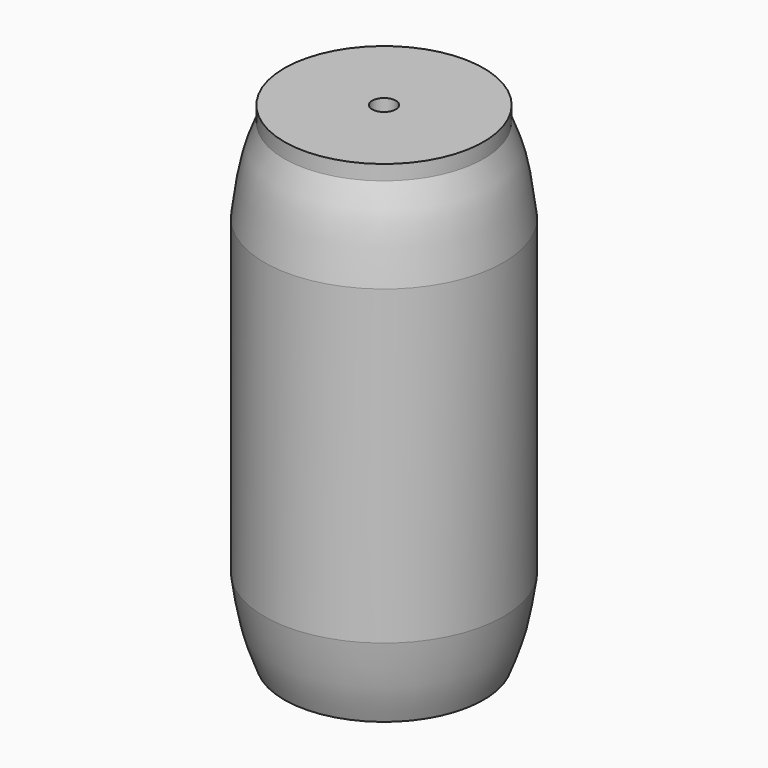
from build123d import *

# Parameters (mm, degrees)
F3_D           = 60.325
F3_CBORE_D     = 60.325
F3_CBORE_DEPTH = 4.826


with BuildPart() as f1:
    # F0 (on Front) → F1 (revolve)
    with BuildSketch(Plane.XZ):
        with BuildLine():
            Line((0, 184.3925616264), (0, 1251.1925616264))
            Line((0, 1251.1925616264), (-254, 1251.1925616264))
            Line((-254, 1251.1925616264), (-254, 1213.0925616264))
            add(Edge.make_bspline(
                [(-254, 1213.0925616264), (-264.7863300499, 1186.664170065), (-288.7208143023, 1128.0205054709), (-299.0989058542, 1043.5793898388), (-304.8, 997.1925616264)],
                knots=[0, 0, 0, 0, 0.4506606424, 1, 1, 1, 1], degree=3))
            Line((-304.8, 997.1925616264), (-304.8, 203.2))
            add(Edge.make_bspline(
                [(-254, 0), (-264.8896198837, 28.1579660638), (-288.0059983927, 87.9314208331), (-298.9902100194, 163.3234862316), (-304.8, 203.2)],
                knots=[0, 0, 0, 0, 0.4710781094, 1, 1, 1, 1], degree=3))
            Line((-254, 0), (0, 0))
            Line((0, 0), (0, 184.3925616264))
        make_face()
    revolve(axis=Axis((0, 0, 717.7925616264), (0, 0, -1)))

    # F3 (through all)
    with Locations(Plane(origin=(0, 0, 0), x_dir=(1, 0, 0), z_dir=(0, 0, -1))):
        with Locations((0, 0)):
            CounterBoreHole(F3_D / 2, F3_CBORE_D / 2, F3_CBORE_DEPTH)


solid = f1.part
